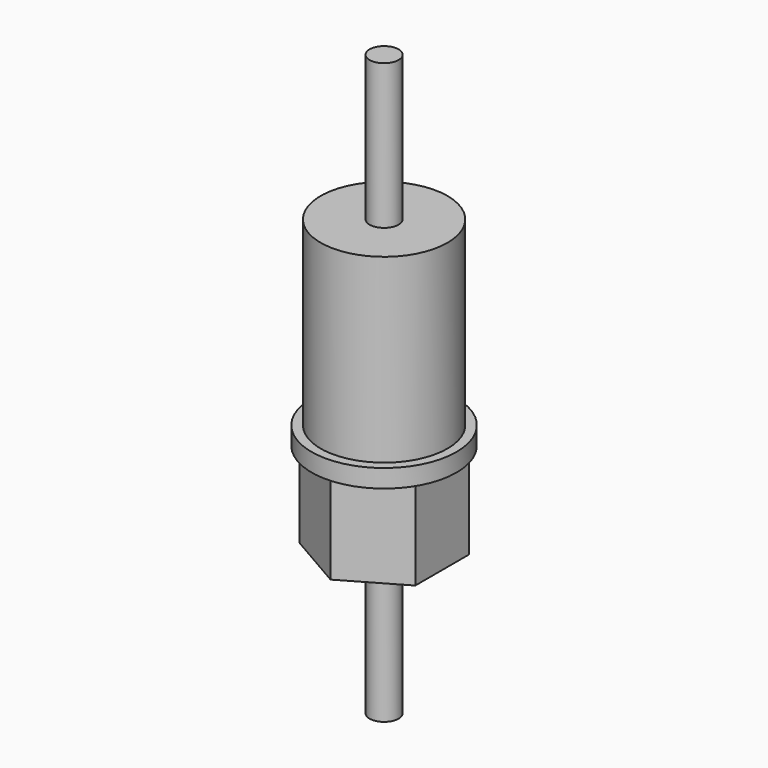
from build123d import *

# Parameters (mm, degrees)
F0_R     = 0.4
F1_DEPTH = 4
F2_R     = 0.4
F3_DEPTH = 2.5
F4_R     = 2
F5_DEPTH = 0.5
F6_R     = 1.75
F7_DEPTH = 5
F8_R     = 0.4
F9_DEPTH = 4


with BuildPart() as f1:
    # F0 (on Top) → F1 (new body)
    with BuildSketch(Plane.XY):
        Circle(F0_R)
    extrude(amount=F1_DEPTH)

    # F2 (on face) → F3 (join)
    with BuildSketch(Plane.XY.offset(4)):
        Polygon((1.6, -0.92376), (1.6, 0.92376), (0, 1.847521), (-1.6, 0.92376), (-1.6, -0.92376), (0, -1.847521), align=None)
        Circle(F2_R, mode=Mode.SUBTRACT)
        Circle(F2_R)
    extrude(amount=F3_DEPTH)

    # F4 (on face) → F5 (join)
    with BuildSketch(Plane.XY.offset(6.5)):
        Circle(F4_R)
        Circle(F4_R)
    extrude(amount=F5_DEPTH)

    # F6 (on face) → F7 (join)
    with BuildSketch(Plane.XY.offset(7)):
        Circle(F6_R)
    extrude(amount=F7_DEPTH)

    # F8 (on face) → F9 (join)
    with BuildSketch(Plane.XY.offset(12)):
        Circle(F8_R)
    extrude(amount=F9_DEPTH)


solid = f1.part
